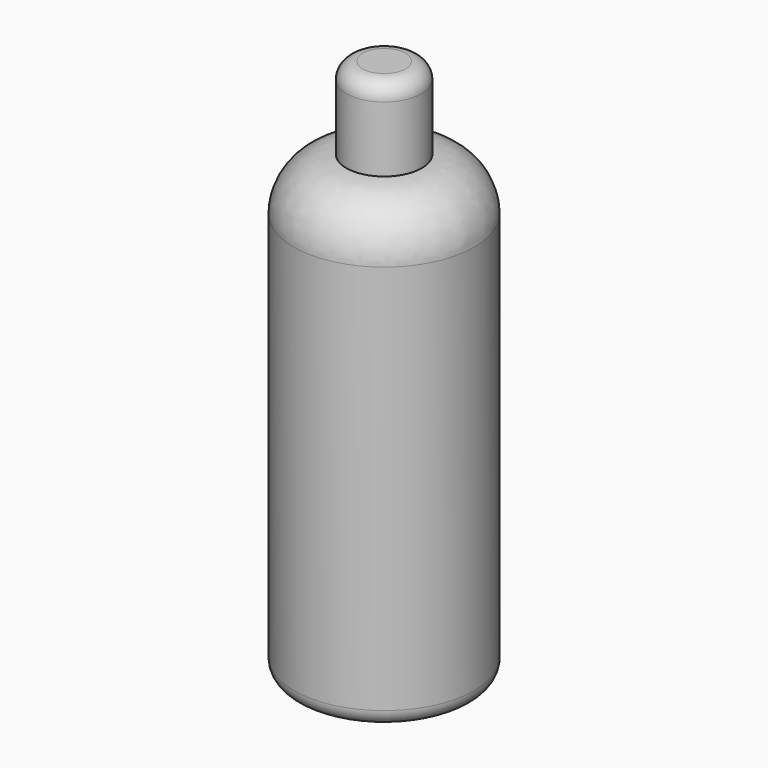
from build123d import *

# Parameters (mm, degrees)
F2_R     = 11.5
F3_DEPTH = 25
F4_R     = 5
F5_R     = 5


with BuildPart() as f1:
    # F0 (on Front) → F1 (revolve)
    with BuildSketch(Plane.XZ):
        with BuildLine():
            Line((0, 140), (0, 0))
            Line((0, 0), (27.5, 0))
            Line((27.5, 0), (27.5, 124))
            ThreePointArc((27.5, 124), (22.813708, 135.313708), (11.5, 140))
            Line((11.5, 140), (0, 140))
        make_face()
    revolve(axis=Axis((0, 0, 70), (0, 0, -1)))

    # F2 (on face) → F3 (join)
    with BuildSketch(Plane.XY.offset(140)):
        Circle(F2_R)
    extrude(amount=F3_DEPTH)

    # F4
    f4_edges = [f1.edges().sort_by_distance(p)[0] for p in [
        (-11.5, 0, 165),
    ]]
    fillet(f4_edges, radius=F4_R)

    # F5
    f5_edges = [f1.edges().sort_by_distance(p)[0] for p in [
        (-27.5, 0, 0),
    ]]
    fillet(f5_edges, radius=F5_R)


solid = f1.part
